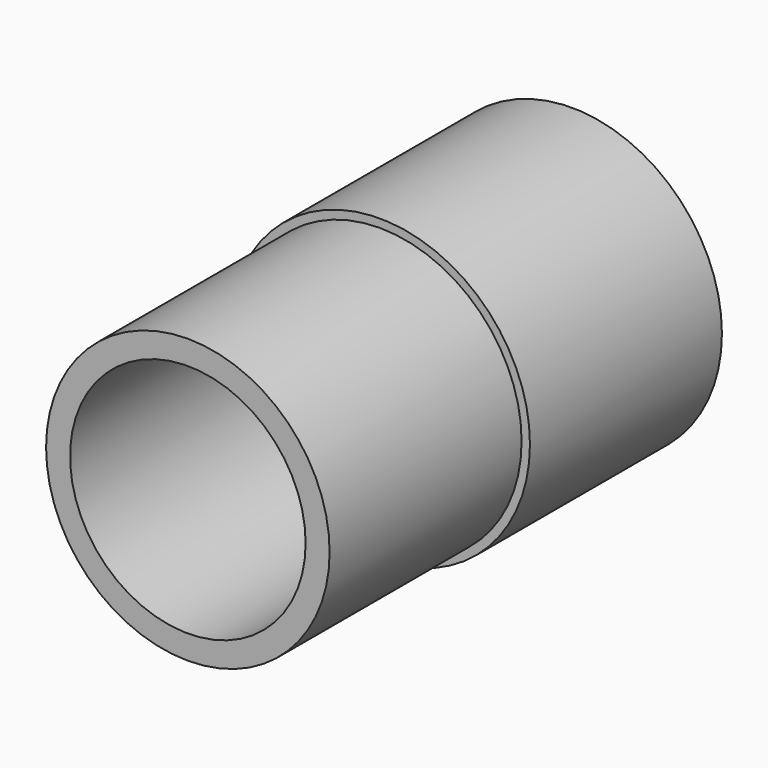
from build123d import *

# Parameters (mm, degrees)
F0_R     = 37.5158
F2_DEPTH = 63.5
F1_R     = 39.7256
F3_DEPTH = 63.5
F4_R     = 2.5654
F4_R_2   = 2.6035
F4_R_3   = 3.5941
F4_R_4   = 3.2766
F4_R_5   = 4.7879
F5_DEPTH = 127.001
F6_R     = 31.165799
F6_R_2   = 4.7879
F6_R_3   = 3.2766
F6_R_4   = 3.5941
F6_R_5   = 2.6035
F6_R_6   = 2.5654
F7_DEPTH = 101.6


with BuildPart() as f2:
    # F0 (on Front) → F2 (new body)
    with BuildSketch(Plane.XZ):
        Circle(F0_R)
    extrude(amount=F2_DEPTH)

    # F1 (on Front) → F3 (join)
    with BuildSketch(Plane.XZ):
        Circle(F1_R)
    extrude(amount=-F3_DEPTH)

    # F4 (on face) → F5 (cut, through all)
    with BuildSketch(Plane(origin=(0, 63.5, 0), x_dir=(-1, 0, 0), z_dir=(0, 1, 0))):
        with Locations((0, 21.9456)):
            Circle(F4_R)
        with Locations((-19.545753, 9.978621)):
            Circle(F4_R_2)
        with Locations((20.072576, 8.871361)):
            Circle(F4_R_3)
        with Locations((-12.724472, -17.880078)):
            Circle(F4_R_4)
        with Locations((16.162698, -14.845085)):
            Circle(F4_R_5)
    extrude(amount=-F5_DEPTH, mode=Mode.SUBTRACT)

    # F6 (on face) → F7 (cut)
    with BuildSketch(Plane.XZ.offset(63.5)):
        Circle(F6_R)
        with Locations((-16.162698, -14.845085)):
            Circle(F6_R_2, mode=Mode.SUBTRACT)
        with Locations((12.724472, -17.880078)):
            Circle(F6_R_3, mode=Mode.SUBTRACT)
        with Locations((-20.072576, 8.871361)):
            Circle(F6_R_4, mode=Mode.SUBTRACT)
        with Locations((19.545753, 9.978621)):
            Circle(F6_R_5, mode=Mode.SUBTRACT)
        with Locations((0, 21.9456)):
            Circle(F6_R_6, mode=Mode.SUBTRACT)
    extrude(amount=-F7_DEPTH, mode=Mode.SUBTRACT)


solid = f2.part
